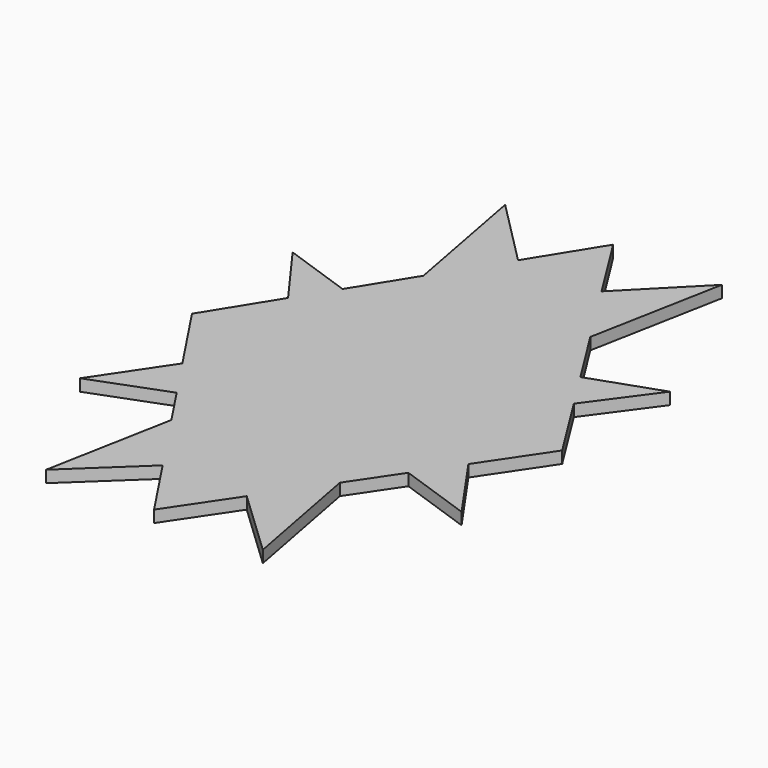
from build123d import *

# Parameters (mm, degrees)
F1_DEPTH = 3


with BuildPart() as f1:
    # F0 (on Top) → F1 (new body)
    with BuildSketch(Plane.XY):
        Polygon((-35.859399, 17.095055), (-46.453845, 0), (-34.672823, -17.763322), (-46.453845, -35.336939), (-27.712737, -28.257679), (-21.255722, -37.99351), (-27.28692, -70.042701), (-10.490165, -54.225722), (0, -70.042701), (10.694617, -54.136827), (27.485336, -70.042701), (21.440764, -38.154314), (29.344575, -26.399146), (47.982499, -32.89038), (36.2668, -16.103869), (47.094543, 0), (36.390139, 17.037497), (47.982499, 32.89038), (30.299418, 26.7317), (21.114942, 41.350028), (27.485336, 74.957299), (10.694617, 57.935377), (0, 74.957299), (-10.490165, 58.03051), (-27.28692, 74.957299), (-20.931108, 41.183144), (-29.846647, 26.797151), (-47.341801, 32.89038), align=None)
    extrude(amount=F1_DEPTH)


solid = f1.part
